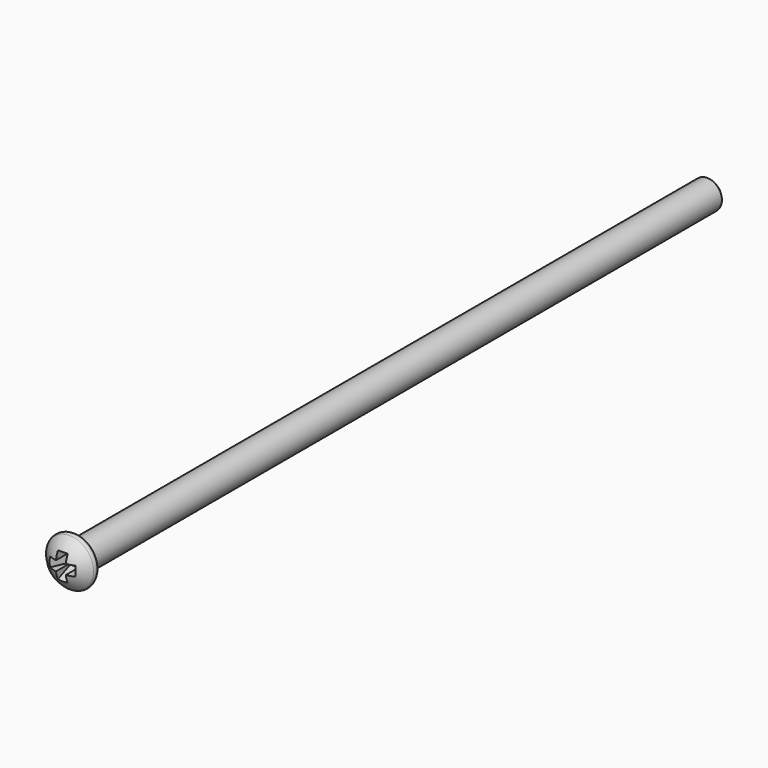
from build123d import *

# Parameters (mm, degrees)
PAD009_DEPTH            = 0.5
BODY005_PLACEMENT_ANGLE = 90
PAD008_DEPTH            = 0.5


with BuildPart() as body005:
    # Sketch021 → Pad009 (new body, symmetric)
    with BuildSketch(Plane.XY):
        Polygon((-2.15, -3.5), (2.15, -3.5), (0.625, 0), (-0.625, 0), align=None)
    extrude(amount=PAD009_DEPTH, both=True)


with BuildPart() as body005_1:
    # Body005 placement: moved
    add(body005.part.rotate(Axis((0, 0, 0), (0, -1, 0)), BODY005_PLACEMENT_ANGLE))


with BuildPart() as fusion:
    # Sketch020 → Pad008 (new body, symmetric)
    with BuildSketch(Plane.XY):
        Polygon((-2.15, -3.5), (2.15, -3.5), (0.625, 0), (-0.625, 0), align=None)
    extrude(amount=PAD008_DEPTH, both=True)

    # Fusion: union Body005
    add(body005_1.part)


with BuildPart() as body006:
    # Sketch019 → Revolution (revolve)
    with BuildSketch(Plane.XY):
        with BuildLine():
            Line((1.5, 0), (1.5, 80.5))
            Line((1.5, 80.5), (1, 81))
            Line((1, 81), (0, 81))
            Line((0, 81), (0, -1.9))
            ThreePointArc((0, -1.9), (1.354762, -1.576681), (2.417511, -0.676413))
            ThreePointArc((2.417511, -0.676413), (2.454213, -0.232991), (2.075154, 0))
            Line((1.5, 0), (2.075154, 0))
        make_face()
    revolve(axis=Axis((0, 0, 0), (0, 1, 0)))

    # Cut: cut Fusion
    add(fusion.part, mode=Mode.SUBTRACT)


with BuildPart() as body006_1:
    # Cut placement: moved
    add(body006.part.moved(Location((-15.9, 3, 25.5))))


with BuildPart() as body006_2:
    # Clone placement: moved
    add(body006_1.part.moved(Location((15.9, 0, -25.5))))


with BuildPart() as body006_3:
    # Body006 placement: moved
    add(body006_2.part.moved(Location((15.9, 0, 25.5))))


solid = body006_3.part
